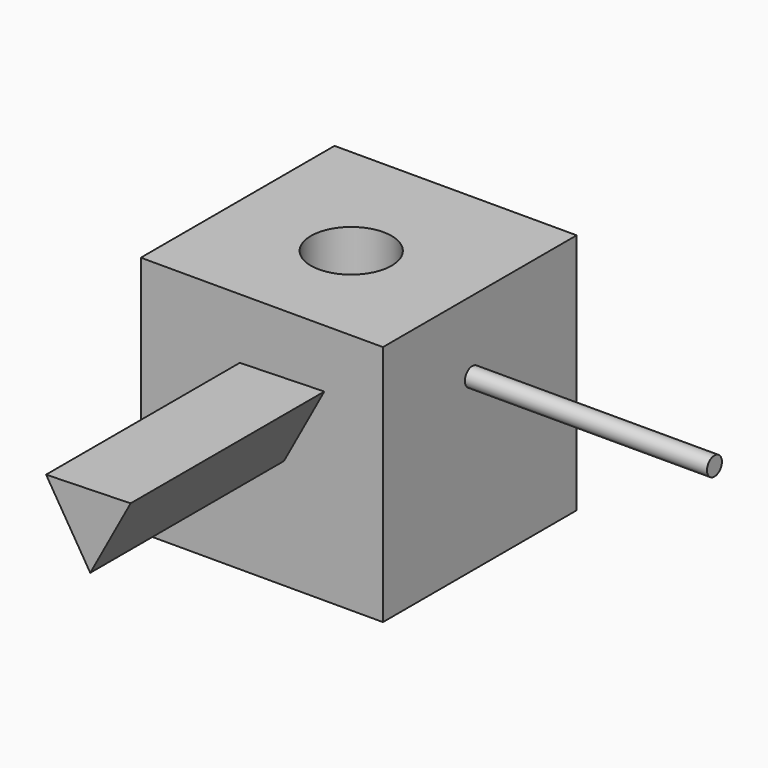
from build123d import *

# Parameters (mm, degrees)
F0_W     = 76.2
F0_H     = 76.2
F1_DEPTH = 76.2
F3_D     = 25.4
F5_DEPTH = 76.2
F6_R     = 2.936929
F7_DEPTH = 76.2


with BuildPart() as f1:
    # F0 (on Right) → F1 (new body)
    with BuildSketch(Plane.YZ):
        with Locations((2.936929, 13.631745)):
            Rectangle(F0_W, F0_H)
    extrude(amount=F1_DEPTH)

    # F3 (through all)
    with Locations(Plane.XY.offset(51.731745)):
        with Locations((38.1, 0)):
            Hole(F3_D / 2)

    # F4 (on face) → F5 (join)
    with BuildSketch(Plane.XZ.offset(35.163071)):
        Polygon((31.147685, 32.728756), (45.052315, 10.038463), (57.75037, 33.425371), align=None)
    extrude(amount=F5_DEPTH)

    # F6 (on face) → F7 (join)
    with BuildSketch(Plane.YZ.offset(76.2)):
        with Locations((0, 29.268674)):
            Circle(F6_R)
    extrude(amount=F7_DEPTH)


solid = f1.part
